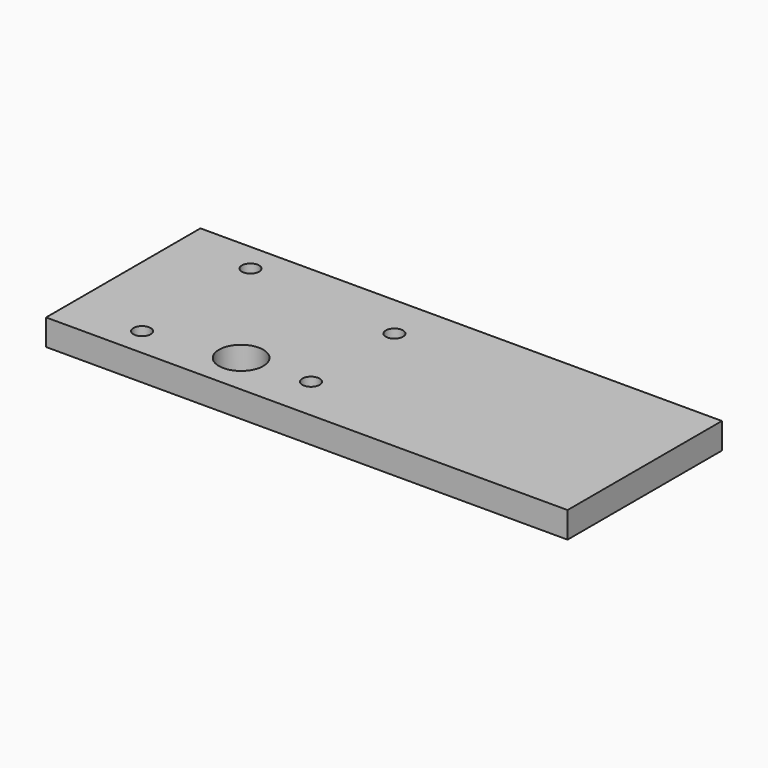
from build123d import *

# Parameters (mm, degrees)
F0_W     = 100
F0_H     = 37
F1_DEPTH = 5
F3_D     = 3.3
F5_D     = 8.5
F7_D     = 3.3
F7_DEPTH = 6
F7_TIP   = 0.9914200214


with BuildPart() as f1:
    # F0 (on Top) → F1 (new body)
    with BuildSketch(Plane.XY):
        Rectangle(F0_W, F0_H)
    extrude(amount=F1_DEPTH)

    # F3 (through all)
    with Locations(Plane.XY.offset(5)):
        with Locations((-36, 13), (-36, -13)):
            Hole(F3_D / 2)

    # F5 (through all)
    with Locations(Plane.XY.offset(5)):
        with Locations((-19, -10.5)):
            Hole(F5_D / 2)

    # F7
    with Locations(Plane.XY.offset(5)):
        with Locations((-6, 10), (-6, -10)):
            Hole(F7_D / 2, depth=F7_DEPTH)
            with Locations((0, 0, -(F7_DEPTH + F7_TIP / 2))):  # 118° drill point
                Cone(0, F7_D / 2, F7_TIP, mode=Mode.SUBTRACT)


solid = f1.part
